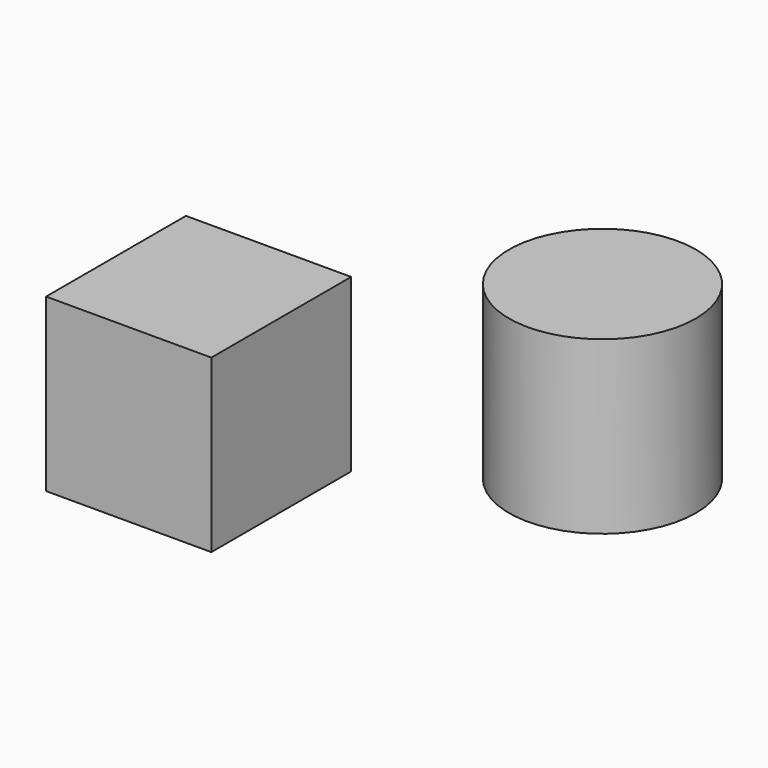
from build123d import *

# Parameters (mm, degrees)
F0_R     = 13.856747
F1_DEPTH = 25.4
F2_W     = 24.50699
F2_H     = 25.922208
F3_DEPTH = 25.4


with BuildPart() as f1:
    # F0 (on Top) → F1 (new body)
    with BuildSketch(Plane.XY):
        Circle(F0_R)
    extrude(amount=F1_DEPTH)


with BuildPart() as f3:
    # F2 (on Top) → F3 (new body)
    with BuildSketch(Plane.XY):
        with Locations((-36.096206, -29.744898)):
            Rectangle(F2_W, F2_H)
    extrude(amount=F3_DEPTH)


solid = Compound([f1.part, f3.part])
